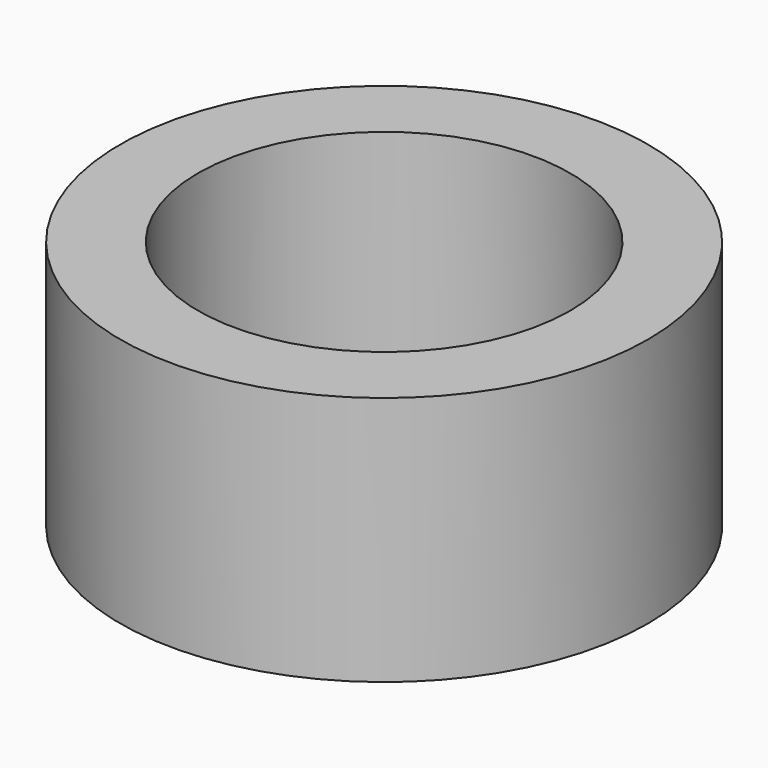
from build123d import *

# Parameters (mm, degrees)
CYLINDER112024025003003006008_R     = 6.7
CYLINDER112024025003003006008_DEPTH = 10
CYLINDER112024025003003006007_R     = 9.5
CYLINDER112024025003003006007_DEPTH = 9


with BuildPart() as obj1:
    # Cylinder112024025003003006008 → Cylinder112024025003003006008 (new body)
    with BuildSketch(Plane.XY):
        Circle(CYLINDER112024025003003006008_R)
    extrude(amount=CYLINDER112024025003003006008_DEPTH)


with BuildPart() as distance_ring:
    # Cylinder112024025003003006007 → Cylinder112024025003003006007 (new body)
    with BuildSketch(Plane.XY):
        Circle(CYLINDER112024025003003006007_R)
    extrude(amount=CYLINDER112024025003003006007_DEPTH)

    # Cut018020020009027020002003004004004: cut obj1
    add(obj1.part, mode=Mode.SUBTRACT)


solid = distance_ring.part
